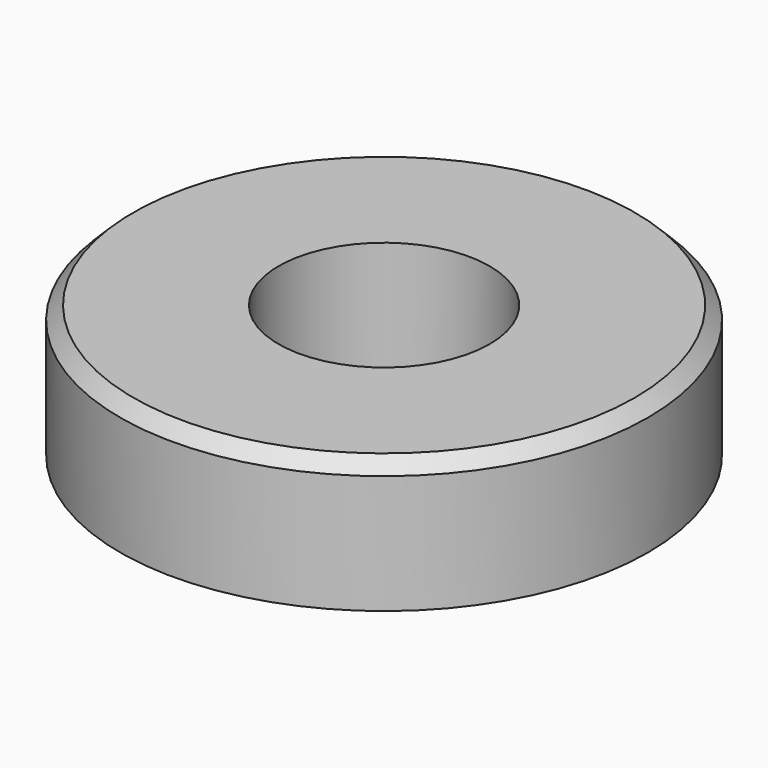
from build123d import *

# Parameters (mm, degrees)
SKETCH_R     = 100
SKETCH_R_2   = 40
PAD_DEPTH    = 50
CHAMFER_SIZE = 5


with BuildPart() as part:
    # Sketch → Pad (new body)
    with BuildSketch(Plane.XY):
        Circle(SKETCH_R)
        Circle(SKETCH_R_2, mode=Mode.SUBTRACT)
    extrude(amount=PAD_DEPTH)

    # Chamfer
    chamfer_edges = [part.edges().sort_by_distance(p)[0] for p in [
        (-100, 0, 50),
    ]]
    chamfer(chamfer_edges, length=CHAMFER_SIZE)


solid = part.part
